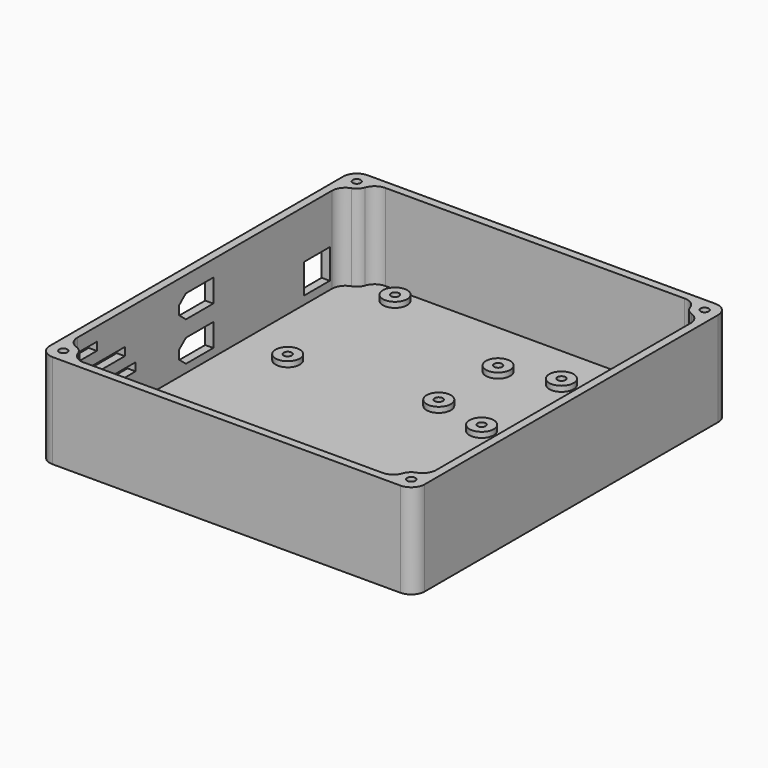
from build123d import *

# Parameters (mm, degrees)
F0_R      = 1.5
F0_R_2    = 4.5
F1_DEPTH  = 3
F2_DEPTH  = 5
F3_DEPTH  = 1.5
F4_DEPTH  = 35
F0_W      = 3
F0_H      = 12
F5_DEPTH  = 6
F6_R      = 5
F7_START  = 17
F7_DEPTH  = 18
F9_W      = 8
F9_H      = 3
F9_W_2    = 21
F9_W_3    = 26
F10_DEPTH = 28


with BuildPart() as f1:
    # F0 (on Top) → F1 (new body)
    with BuildSketch(Plane.XY):
        with BuildLine():
            Line((60.4688711259, -70), (66.5, -70))
            Line((66.5, -70), (66.5, -63.9688711259))
            ThreePointArc((66.5, -63.9688711259), (61.3180194847, -64.8180194847), (60.4688711259, -70))
        make_face()
        with Locations((64.5, -68)):
            Circle(F0_R, mode=Mode.SUBTRACT)
        with BuildLine():
            Line((-60.4688711259, -70), (60.4688711259, -70))
            ThreePointArc((60.4688711259, -70), (61.3180194847, -64.8180194847), (66.5, -63.9688711259))
            Line((66.5, -63.9688711259), (66.5, 63.9688711259))
            ThreePointArc((66.5, 63.9688711259), (61.3180194847, 64.8180194847), (60.4688711259, 70))
            Line((60.4688711259, 70), (-60.4688711259, 70))
            ThreePointArc((-60.4688711259, 70), (-60.1187855603, 69.0271124735), (-60, 68))
            ThreePointArc((-60, 68), (-62.1282917549, 64.1757353648), (-66.5, 63.9688711259))
            Line((-66.5, 63.9688711259), (-66.5, 58))
            Line((-66.5, 58), (-66.5, 46))
            Line((-66.5, 46), (-66.5, -63.9688711259))
            ThreePointArc((-66.5, -63.9688711259), (-62.1282917549, -64.1757353648), (-60, -68))
            ThreePointArc((-60, -68), (-60.1187855603, -69.0271124735), (-60.4688711259, -70))
        make_face()
        with Locations((-48.5, 16)):
            Circle(F0_R_2, mode=Mode.SUBTRACT)
        with Locations((-47.5, 64.5)):
            Circle(F0_R_2, mode=Mode.SUBTRACT)
        with Locations((23, 16.5)):
            Circle(F0_R_2, mode=Mode.SUBTRACT)
        with Locations((3.5, 21)):
            Circle(F0_R_2, mode=Mode.SUBTRACT)
        with Locations((60, 16.5)):
            Circle(F0_R_2, mode=Mode.SUBTRACT)
        with Locations((3.5, 48.5)):
            Circle(F0_R_2, mode=Mode.SUBTRACT)
        with Locations((23, 53.5)):
            Circle(F0_R_2, mode=Mode.SUBTRACT)
        with Locations((60, 53.5)):
            Circle(F0_R_2, mode=Mode.SUBTRACT)
        with BuildLine():
            Line((-66.5, -70), (-60.4688711259, -70))
            ThreePointArc((-60.4688711259, -70), (-60.1187855603, -69.0271124735), (-60, -68))
            ThreePointArc((-60, -68), (-62.1282917549, -64.1757353648), (-66.5, -63.9688711259))
            Line((-66.5, -63.9688711259), (-66.5, -70))
        make_face()
        with Locations((-64.5, -68)):
            Circle(F0_R, mode=Mode.SUBTRACT)
        with BuildLine():
            Line((-60.4688711259, -70), (60.4688711259, -70))
            ThreePointArc((60.4688711259, -70), (61.3180194847, -64.8180194847), (66.5, -63.9688711259))
            Line((66.5, -63.9688711259), (66.5, 63.9688711259))
            ThreePointArc((66.5, 63.9688711259), (61.3180194847, 64.8180194847), (60.4688711259, 70))
            Line((60.4688711259, 70), (-60.4688711259, 70))
            ThreePointArc((-60.4688711259, 70), (-60.1187855603, 69.0271124735), (-60, 68))
            ThreePointArc((-60, 68), (-62.1282917549, 64.1757353648), (-66.5, 63.9688711259))
            Line((-66.5, 63.9688711259), (-66.5, 58))
            Line((-66.5, 58), (-66.5, 46))
            Line((-66.5, 46), (-66.5, -63.9688711259))
            ThreePointArc((-66.5, -63.9688711259), (-62.1282917549, -64.1757353648), (-60, -68))
            ThreePointArc((-60, -68), (-60.1187855603, -69.0271124735), (-60.4688711259, -70))
        make_face()
        with Locations((-48.5, 16)):
            Circle(F0_R_2, mode=Mode.SUBTRACT)
        with Locations((-47.5, 64.5)):
            Circle(F0_R_2, mode=Mode.SUBTRACT)
        with Locations((23, 16.5)):
            Circle(F0_R_2, mode=Mode.SUBTRACT)
        with Locations((3.5, 21)):
            Circle(F0_R_2, mode=Mode.SUBTRACT)
        with Locations((60, 16.5)):
            Circle(F0_R_2, mode=Mode.SUBTRACT)
        with Locations((3.5, 48.5)):
            Circle(F0_R_2, mode=Mode.SUBTRACT)
        with Locations((23, 53.5)):
            Circle(F0_R_2, mode=Mode.SUBTRACT)
        with Locations((60, 53.5)):
            Circle(F0_R_2, mode=Mode.SUBTRACT)
        with BuildLine():
            ThreePointArc((60.4688711259, 70), (61.3180194847, 64.8180194847), (66.5, 63.9688711259))
            Line((66.5, 63.9688711259), (66.5, 70))
            Line((66.5, 70), (60.4688711259, 70))
        make_face()
        with Locations((64.5, 68)):
            Circle(F0_R, mode=Mode.SUBTRACT)
        with BuildLine():
            ThreePointArc((-60, 68), (-60.1187855603, 69.0271124735), (-60.4688711259, 70))
            Line((-60.4688711259, 70), (-66.5, 70))
            Line((-66.5, 70), (-66.5, 63.9688711259))
            ThreePointArc((-66.5, 63.9688711259), (-62.1282917549, 64.1757353648), (-60, 68))
        make_face()
        with Locations((-64.5, 68)):
            Circle(F0_R, mode=Mode.SUBTRACT)
    extrude(amount=F1_DEPTH)

    # F0 (on Top) → F2 (join)
    with BuildSketch(Plane.XY):
        with Locations((-47.5, 64.5)):
            Circle(F0_R_2)
        with Locations((-47.5, 64.5)):
            Circle(F0_R, mode=Mode.SUBTRACT)
        with Locations((-48.5, 16)):
            Circle(F0_R_2)
        with Locations((-48.5, 16)):
            Circle(F0_R, mode=Mode.SUBTRACT)
        with Locations((3.5, 48.5)):
            Circle(F0_R_2)
        with Locations((3.5, 48.5)):
            Circle(F0_R, mode=Mode.SUBTRACT)
        with Locations((23, 53.5)):
            Circle(F0_R_2)
        with Locations((23, 53.5)):
            Circle(F0_R, mode=Mode.SUBTRACT)
        with Locations((23, 16.5)):
            Circle(F0_R_2)
        with Locations((23, 16.5)):
            Circle(F0_R, mode=Mode.SUBTRACT)
        with Locations((60, 53.5)):
            Circle(F0_R_2)
        with Locations((60, 53.5)):
            Circle(F0_R, mode=Mode.SUBTRACT)
        with Locations((60, 16.5)):
            Circle(F0_R_2)
        with Locations((60, 16.5)):
            Circle(F0_R, mode=Mode.SUBTRACT)
        with Locations((3.5, 21)):
            Circle(F0_R_2)
        with Locations((3.5, 21)):
            Circle(F0_R, mode=Mode.SUBTRACT)
    extrude(amount=F2_DEPTH)

    # F0 (on Top) → F3 (join)
    with BuildSketch(Plane.XY):
        with Locations((-47.5, 64.5)):
            Circle(F0_R)
        with Locations((-48.5, 16)):
            Circle(F0_R)
        with Locations((3.5, 48.5)):
            Circle(F0_R)
        with Locations((3.5, 21)):
            Circle(F0_R)
        with Locations((23, 53.5)):
            Circle(F0_R)
        with Locations((23, 16.5)):
            Circle(F0_R)
        with Locations((60, 16.5)):
            Circle(F0_R)
        with Locations((60, 53.5)):
            Circle(F0_R)
        with Locations((-64.5, -68)):
            Circle(F0_R)
        with Locations((64.5, -68)):
            Circle(F0_R)
        with Locations((64.5, 68)):
            Circle(F0_R)
        with Locations((-64.5, 68)):
            Circle(F0_R)
    extrude(amount=F3_DEPTH)

    # F0 (on Top) → F4 (join)
    with BuildSketch(Plane.XY):
        with BuildLine():
            Line((66.5, -63.9688711259), (66.5, -70))
            Line((66.5, -70), (60.4688711259, -70))
            ThreePointArc((60.4688711259, -70), (65.5271124735, -72.3812144397), (69, -68))
            ThreePointArc((69, -68), (68.3242646352, -65.6282917549), (66.5, -63.9688711259))
        make_face()
        with BuildLine():
            ThreePointArc((69, -68), (65.5271124735, -72.3812144397), (60.4688711259, -70))
            Line((60.4688711259, -70), (-60.4688711259, -70))
            ThreePointArc((-60.4688711259, -70), (-67.6819805153, -71.1819805153), (-66.5, -63.9688711259))
            Line((-66.5, -63.9688711259), (-66.5, 46))
            Line((-66.5, 46), (-69.5, 46))
            Line((-69.5, 46), (-69.5, -68))
            ThreePointArc((-69.5, -68), (-68.0355339059, -71.5355339059), (-64.5, -73))
            Line((-64.5, -73), (64.5, -73))
            ThreePointArc((64.5, -73), (68.0355339059, -71.5355339059), (69.5, -68))
            Line((69.5, -68), (69.5, 68))
            ThreePointArc((69.5, 68), (68.0355339059, 71.5355339059), (64.5, 73))
            Line((64.5, 73), (-64.5, 73))
            ThreePointArc((-64.5, 73), (-68.0355339059, 71.5355339059), (-69.5, 68))
            Line((-69.5, 68), (-69.5, 58))
            Line((-69.5, 58), (-66.5, 58))
            Line((-66.5, 58), (-66.5, 63.9688711259))
            ThreePointArc((-66.5, 63.9688711259), (-67.6819805153, 71.1819805153), (-60.4688711259, 70))
            Line((-60.4688711259, 70), (60.4688711259, 70))
            ThreePointArc((60.4688711259, 70), (65.5271124735, 72.3812144397), (69, 68))
            ThreePointArc((69, 68), (68.3242646352, 65.6282917549), (66.5, 63.9688711259))
            Line((66.5, 63.9688711259), (66.5, -63.9688711259))
            ThreePointArc((66.5, -63.9688711259), (68.3242646352, -65.6282917549), (69, -68))
        make_face()
        with BuildLine():
            ThreePointArc((-66.5, -63.9688711259), (-67.6819805153, -71.1819805153), (-60.4688711259, -70))
            Line((-60.4688711259, -70), (-66.5, -70))
            Line((-66.5, -70), (-66.5, -63.9688711259))
        make_face()
        with BuildLine():
            ThreePointArc((69, -68), (65.5271124735, -72.3812144397), (60.4688711259, -70))
            Line((60.4688711259, -70), (-60.4688711259, -70))
            ThreePointArc((-60.4688711259, -70), (-67.6819805153, -71.1819805153), (-66.5, -63.9688711259))
            Line((-66.5, -63.9688711259), (-66.5, 46))
            Line((-66.5, 46), (-69.5, 46))
            Line((-69.5, 46), (-69.5, -68))
            ThreePointArc((-69.5, -68), (-68.0355339059, -71.5355339059), (-64.5, -73))
            Line((-64.5, -73), (64.5, -73))
            ThreePointArc((64.5, -73), (68.0355339059, -71.5355339059), (69.5, -68))
            Line((69.5, -68), (69.5, 68))
            ThreePointArc((69.5, 68), (68.0355339059, 71.5355339059), (64.5, 73))
            Line((64.5, 73), (-64.5, 73))
            ThreePointArc((-64.5, 73), (-68.0355339059, 71.5355339059), (-69.5, 68))
            Line((-69.5, 68), (-69.5, 58))
            Line((-69.5, 58), (-66.5, 58))
            Line((-66.5, 58), (-66.5, 63.9688711259))
            ThreePointArc((-66.5, 63.9688711259), (-67.6819805153, 71.1819805153), (-60.4688711259, 70))
            Line((-60.4688711259, 70), (60.4688711259, 70))
            ThreePointArc((60.4688711259, 70), (65.5271124735, 72.3812144397), (69, 68))
            ThreePointArc((69, 68), (68.3242646352, 65.6282917549), (66.5, 63.9688711259))
            Line((66.5, 63.9688711259), (66.5, -63.9688711259))
            ThreePointArc((66.5, -63.9688711259), (68.3242646352, -65.6282917549), (69, -68))
        make_face()
        with BuildLine():
            Line((-66.5, 70), (-60.4688711259, 70))
            ThreePointArc((-60.4688711259, 70), (-67.6819805153, 71.1819805153), (-66.5, 63.9688711259))
            Line((-66.5, 63.9688711259), (-66.5, 70))
        make_face()
        with BuildLine():
            Line((66.5, 70), (66.5, 63.9688711259))
            ThreePointArc((66.5, 63.9688711259), (68.3242646352, 65.6282917549), (69, 68))
            ThreePointArc((69, 68), (65.5271124735, 72.3812144397), (60.4688711259, 70))
            Line((60.4688711259, 70), (66.5, 70))
        make_face()
        with BuildLine():
            ThreePointArc((60.4688711259, 70), (61.3180194847, 64.8180194847), (66.5, 63.9688711259))
            Line((66.5, 63.9688711259), (66.5, 70))
            Line((66.5, 70), (60.4688711259, 70))
        make_face()
        with Locations((64.5, 68)):
            Circle(F0_R, mode=Mode.SUBTRACT)
        with BuildLine():
            Line((60.4688711259, -70), (66.5, -70))
            Line((66.5, -70), (66.5, -63.9688711259))
            ThreePointArc((66.5, -63.9688711259), (61.3180194847, -64.8180194847), (60.4688711259, -70))
        make_face()
        with Locations((64.5, -68)):
            Circle(F0_R, mode=Mode.SUBTRACT)
        with BuildLine():
            ThreePointArc((-60, 68), (-60.1187855603, 69.0271124735), (-60.4688711259, 70))
            Line((-60.4688711259, 70), (-66.5, 70))
            Line((-66.5, 70), (-66.5, 63.9688711259))
            ThreePointArc((-66.5, 63.9688711259), (-62.1282917549, 64.1757353648), (-60, 68))
        make_face()
        with Locations((-64.5, 68)):
            Circle(F0_R, mode=Mode.SUBTRACT)
        with BuildLine():
            Line((-66.5, -70), (-60.4688711259, -70))
            ThreePointArc((-60.4688711259, -70), (-60.1187855603, -69.0271124735), (-60, -68))
            ThreePointArc((-60, -68), (-62.1282917549, -64.1757353648), (-66.5, -63.9688711259))
            Line((-66.5, -63.9688711259), (-66.5, -70))
        make_face()
        with Locations((-64.5, -68)):
            Circle(F0_R, mode=Mode.SUBTRACT)
    extrude(amount=F4_DEPTH)

    # F0 (on Top) → F5 (join)
    with BuildSketch(Plane.XY):
        with Locations((-68, 52)):
            Rectangle(F0_W, F0_H)
    extrude(amount=F5_DEPTH)

    # F6
    f6_edges = [f1.edges().sort_by_distance(p)[0] for p in [
        (60.468871, 70, 19),
        (66.5, 63.968871, 19),
        (-60.468871, 70, 19),
        (-66.5, 63.968871, 19),
        (-66.5, -63.968871, 19),
        (-60.468871, -70, 19),
        (66.5, -63.968871, 19),
        (60.468871, -70, 19),
    ]]
    fillet(f6_edges, radius=F6_R)

    # F0 (on Top) → F7 (join)
    with BuildSketch(Plane.XY.offset(F7_START)):
        with Locations((-68, 52)):
            Rectangle(F0_W, F0_H)
    extrude(amount=F7_DEPTH)

    # F9 (on offset) → F10 (cut)
    with BuildSketch(Plane(origin=(-94.5, 0, 0), x_dir=(0, -1, 0), z_dir=(-1, 0, 0))):
        with Locations((54, 28.5)):
            Rectangle(F9_W, F9_H)
        with Locations((47.5, 21.5)):
            Rectangle(F9_W_2, F9_H)
        with Locations((45, 14.5)):
            Rectangle(F9_W_3, F9_H)
        with Locations((45, 7.5)):
            Rectangle(F9_W_3, F9_H)
        Polygon((8.7, 14.5), (-4, 14.5), (-4, 6), (8.7, 6), (12, 8.75), (12, 11.75), align=None)
        Polygon((8.7, 29), (-4, 29), (-4, 20.5), (8.7, 20.5), (12, 23.25), (12, 26.25), align=None)
    extrude(amount=-F10_DEPTH, mode=Mode.SUBTRACT)


solid = f1.part
